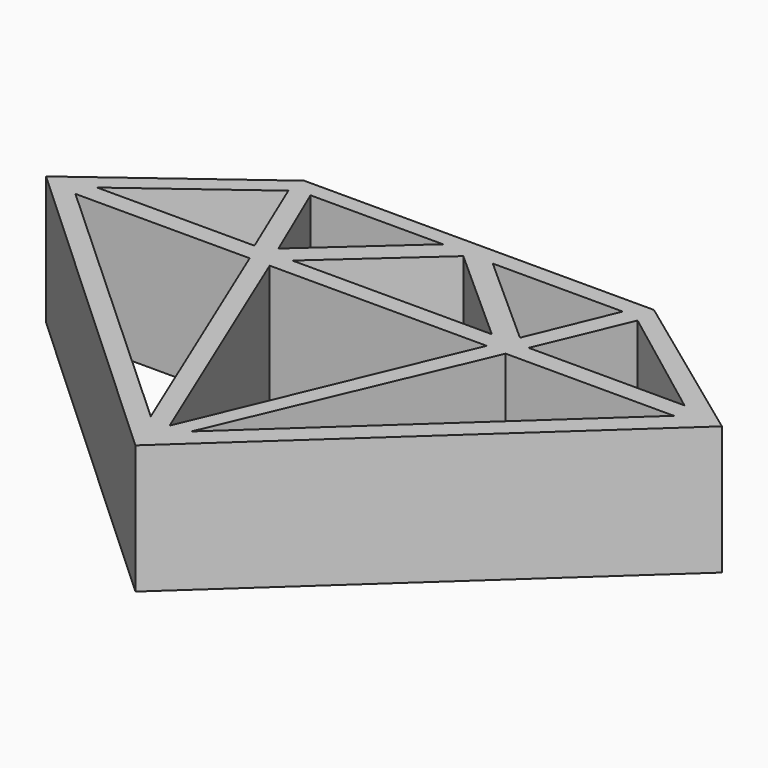
from build123d import *

# Parameters (mm, degrees)
F1_DEPTH = 25.4


with BuildPart() as f1:
    # F0 (on Top) → F1 (new body)
    with BuildSketch(Plane.XY):
        Polygon((-34.859851, 37.040811), (-66.812754, 13.318201), (0, -48.171216), (66.598639, 13.244728), (34.150366, 37.040811), align=None)
        Polygon((-4.189251, -39.142847), (-59.640799, 11.587198), (-25.256358, 11.587198), align=None, mode=Mode.SUBTRACT)
        Polygon((0, -39.739005), (-21.314679, 11.587198), (21.498891, 11.587198), align=None, mode=Mode.SUBTRACT)
        Polygon((3.833792, -39.151657), (25.423918, 11.369237), (58.617983, 11.369237), align=None, mode=Mode.SUBTRACT)
        Polygon((-27.296605, 15.322787), (-58.370054, 15.322787), (-34.68588, 32.906492), align=None, mode=Mode.SUBTRACT)
        Polygon((-23.8165, 16.890425), (-31.070327, 33.846248), (-4.91078, 33.846248), align=None, mode=Mode.SUBTRACT)
        Polygon((19.714056, 15.093642), (-19.63525, 15.093642), (0, 32.703754), align=None, mode=Mode.SUBTRACT)
        Polygon((23.82333, 16.893338), (5.090745, 33.608567), (30.739976, 33.608567), align=None, mode=Mode.SUBTRACT)
        Polygon((57.734113, 15.093642), (26.993459, 15.093642), (34.390427, 32.703754), align=None, mode=Mode.SUBTRACT)
    extrude(amount=F1_DEPTH)


solid = f1.part
